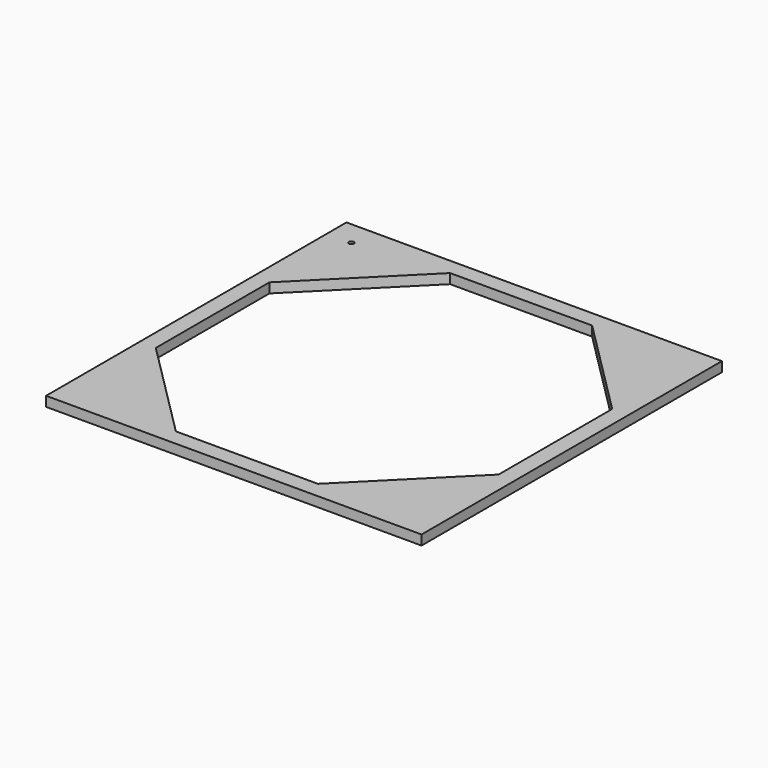
from build123d import *

# Parameters (mm, degrees)
F0_W     = 230
F0_H     = 230
F0_R     = 1.5
F1_DEPTH = 6


with BuildPart() as f1:
    # F0 (on Top) → F1 (new body)
    with BuildSketch(Plane.XY):
        with Locations((-297.792881, 119.858589)):
            Rectangle(F0_W, F0_H)
        with Locations((-397.792881, 219.858589)):
            Circle(F0_R, mode=Mode.SUBTRACT)
        Polygon((-402.792881, 163.351013), (-341.285305, 224.858589), (-254.300457, 224.858589), (-192.792881, 163.351013), (-192.792881, 76.366165), (-254.300457, 14.858589), (-341.285305, 14.858589), (-402.792881, 76.366165), align=None, mode=Mode.SUBTRACT)
    extrude(amount=F1_DEPTH)


solid = f1.part
